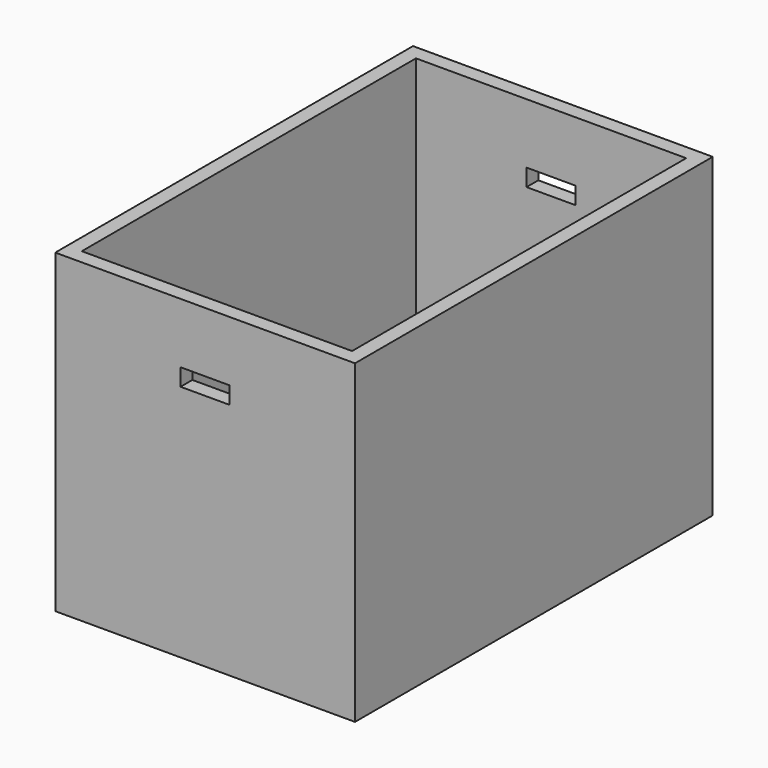
from build123d import *

# Parameters (mm, degrees)
F0_W     = 22
F0_H     = 34
F1_DEPTH = 1.2
F0_W_2   = 24.4
F0_H_2   = 36.4
F2_DEPTH = 25.7
F3_W     = 4
F3_H     = 1.4
F4_DEPTH = 36.401


with BuildPart() as f1:
    # F0 (on Top) → F1 (new body)
    with BuildSketch(Plane.XY):
        Rectangle(F0_W, F0_H)
    extrude(amount=F1_DEPTH)

    # F0 (on Top) → F2 (join)
    with BuildSketch(Plane.XY):
        Rectangle(F0_W_2, F0_H_2)
        Rectangle(F0_W, F0_H, mode=Mode.SUBTRACT)
    extrude(amount=F2_DEPTH)

    # F3 (on face) → F4 (cut, through all)
    with BuildSketch(Plane(origin=(0, 18.2, 0), x_dir=(-1, 0, 0), z_dir=(0, 1, 0))):
        with Locations((0, 20.1)):
            Rectangle(F3_W, F3_H)
    extrude(amount=-F4_DEPTH, mode=Mode.SUBTRACT)


solid = f1.part
